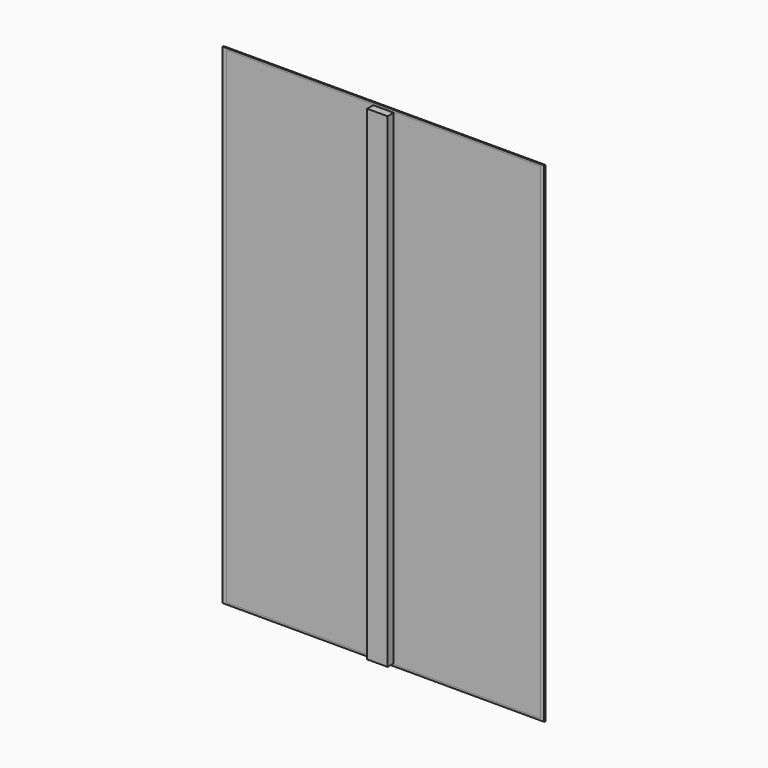
from build123d import *

# Parameters (mm, degrees)
F0_W     = 1600.2
F0_H     = 2438.4
F1_DEPTH = 6.35
F2_W     = 101.6
F2_H     = 2413
F3_DEPTH = 44.45
F4_W     = 1562.1
F4_H     = 2419.35
F5_DEPTH = 6.35


with BuildPart() as f1:
    # F0 (on Front) → F1 (new body)
    with BuildSketch(Plane.XZ):
        Rectangle(F0_W, F0_H)
    extrude(amount=F1_DEPTH)


with BuildPart() as f3:
    # F2 (on Front) → F3 (new body)
    with BuildSketch(Plane.XZ):
        Rectangle(F2_W, F2_H)
    extrude(amount=F3_DEPTH)


with BuildPart() as f5:
    # F4 (on Front) → F5 (new body)
    with BuildSketch(Plane.XZ):
        Rectangle(F4_W, F4_H)
    extrude(amount=F5_DEPTH)


solid = Compound([f1.part, f3.part, f5.part])
